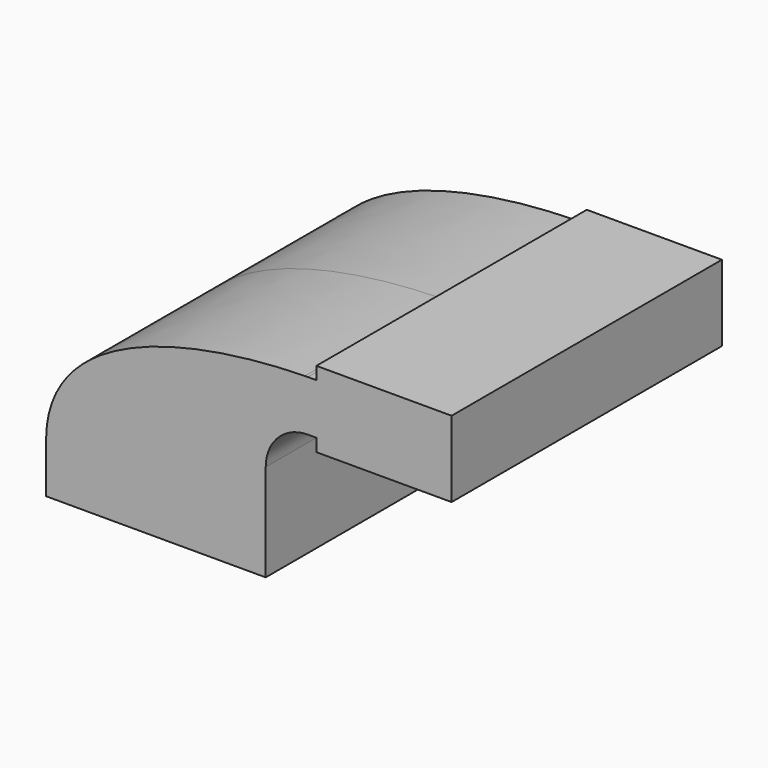
from build123d import *

# Parameters (mm, degrees)
F0_W     = 25.4
F0_H     = 28.575
F1_DEPTH = 63.5


with BuildPart() as f1:
    # F0 (on Front) → F1 (new body, symmetric)
    with BuildSketch(Plane.XZ):
        Polygon((-41.275, 9.525), (-41.275, -9.525), (41.275, -9.525), (41.275, 9.525), (22.225, 9.525), align=None)
        with BuildLine():
            add(Edge.make_bspline(
                [(-41.275, 9.525), (-40.789037, 49.732141), (14.898069, 61.143933), (56.016519, 61.906802)],
                knots=[0, 0, 0, 0, 110.485933, 110.485933, 110.485933, 110.485933], degree=3))
            Line((-41.275, 9.525), (22.225, 9.525))
            Line((22.225, 9.525), (22.225, 27.0002))
            ThreePointArc((22.225, 27.0002), (32.056749, 51.291853), (56.016519, 61.906802))
        make_face()
        with BuildLine():
            Line((22.225, 9.525), (41.275, 9.525))
            Line((41.275, 9.525), (41.275, 27.0002))
            ThreePointArc((41.275, 27.0002), (45.92468, 38.22552), (57.15, 42.8752))
            Line((57.15, 42.8752), (60.325, 42.8752))
            Line((60.325, 42.8752), (60.325, 61.9252))
            Line((60.325, 61.9252), (57.15, 61.9252))
            add(Edge.make_bspline(
                [(56.016519, 61.906802), (56.395602, 61.913835), (56.773448, 61.919963), (57.15, 61.9252)],
                knots=[110.485933, 110.485933, 110.485933, 110.485933, 111.504536, 111.504536, 111.504536, 111.504536], degree=3))
            ThreePointArc((56.016519, 61.906802), (32.056749, 51.291853), (22.225, 27.0002))
            Line((22.225, 27.0002), (22.225, 9.525))
        make_face()
        with BuildLine():
            ThreePointArc((57.15, 61.9252), (56.583185, 61.9206), (56.016519, 61.906802))
            add(Edge.make_bspline(
                [(56.016519, 61.906802), (56.395602, 61.913835), (56.773448, 61.919963), (57.15, 61.9252)],
                knots=[110.485933, 110.485933, 110.485933, 110.485933, 111.504536, 111.504536, 111.504536, 111.504536], degree=3))
        make_face()
        Polygon((60.325, 66.675), (60.325, 61.9252), (60.325, 42.8752), (60.325, 38.1), (85.725, 38.1), (85.725, 66.675), align=None)
        with Locations((98.425, 52.3875)):
            Rectangle(F0_W, F0_H)
    extrude(amount=F1_DEPTH, both=True)


solid = f1.part
